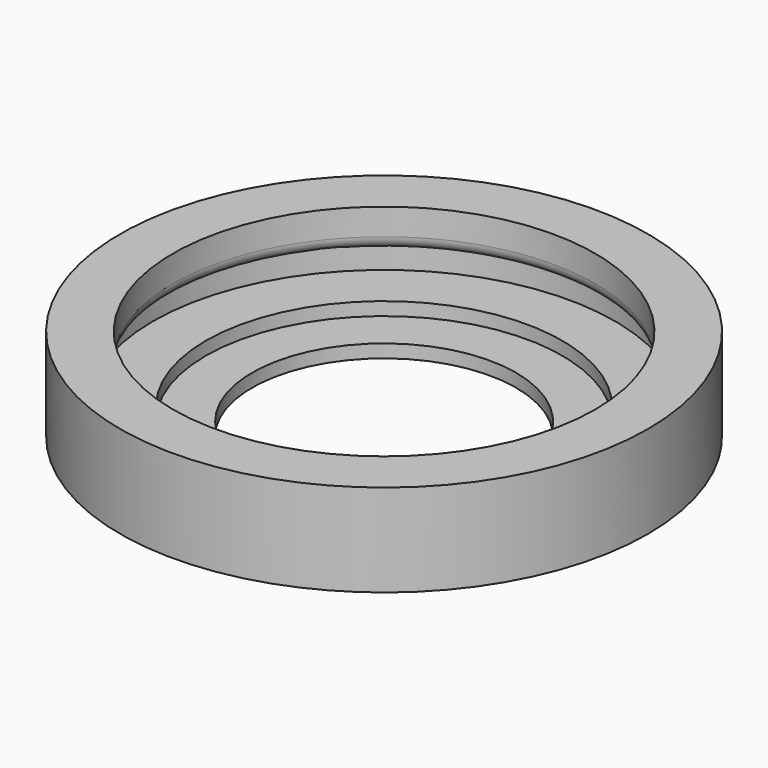
from build123d import *

# Parameters (mm, degrees)
F0_R     = 13.5
F0_R_2   = 10
F1_DEPTH = 1
F0_R_3   = 17.5
F2_DEPTH = 2
F0_R_4   = 20
F3_DEPTH = 7
F5_START = 4
F4_R     = 20
F4_R_2   = 16
F5_DEPTH = 3
F6_R     = 1


with BuildPart() as f1:
    # F0 (on Top) → F1 (new body)
    with BuildSketch(Plane.XY):
        Circle(F0_R)
        Circle(F0_R_2, mode=Mode.SUBTRACT)
    extrude(amount=F1_DEPTH)

    # F0 (on Top) → F2 (join)
    with BuildSketch(Plane.XY):
        Circle(F0_R_3)
        Circle(F0_R, mode=Mode.SUBTRACT)
    extrude(amount=F2_DEPTH)

    # F0 (on Top) → F3 (join)
    with BuildSketch(Plane.XY):
        Circle(F0_R_4)
        Circle(F0_R_3, mode=Mode.SUBTRACT)
    extrude(amount=F3_DEPTH)

    # F4 (on Top) → F5 (join)
    with BuildSketch(Plane.XY.offset(F5_START)):
        Circle(F4_R)
        Circle(F4_R_2, mode=Mode.SUBTRACT)
    extrude(amount=F5_DEPTH)

    # F6
    f6_edges = [f1.edges().sort_by_distance(p)[0] for p in [
        (-16, 0, 4),
    ]]
    fillet(f6_edges, radius=F6_R)


solid = f1.part
